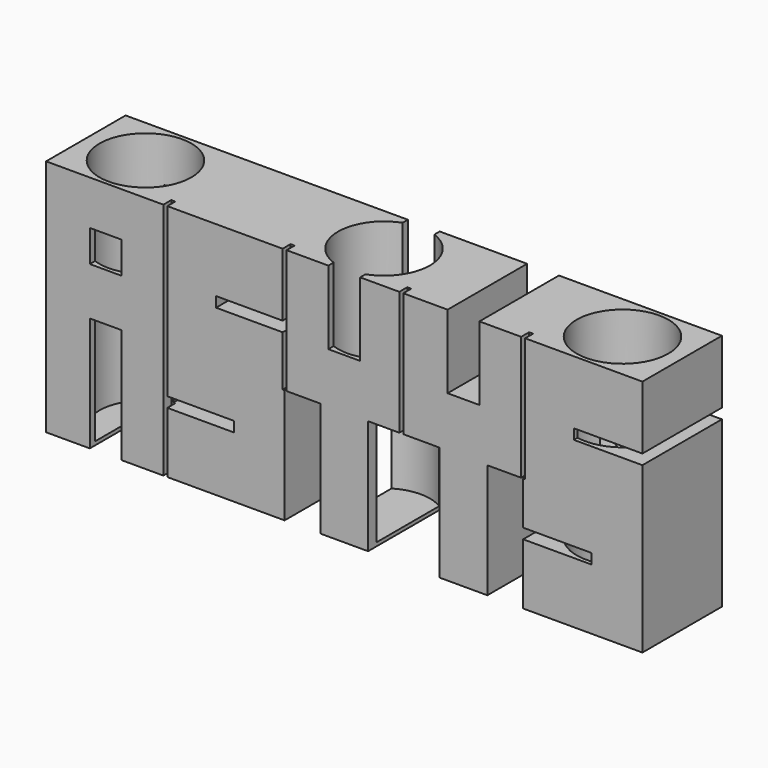
from build123d import *

# Parameters (mm, degrees)
F0_W      = 150
F0_H      = 60
F1_DEPTH  = 25
F2_W      = 146
F2_H      = 21
F3_DEPTH  = 2
F4_R      = 11.55
F5_DEPTH  = 59.1
F6_R      = 12.5
F7_DEPTH  = 6.9
F8_W      = 4
F8_H      = 8
F8_H_2    = 28.7938314093
F8_W_2    = 17.2490148246
F8_H_3    = 2.5750142522
F8_W_3    = 9
F8_H_4    = 18.5084169569
F9_DEPTH  = 35.6
F10_W     = 8
F10_H     = 28.7938314093
F10_H_2   = 18.5084169569
F10_H_3   = 8
F10_W_2   = 0.5
F10_H_4   = 15.327197553
F10_W_3   = 16.7490148246
F10_H_5   = 2.5750142522
F10_H_6   = 31.2061685907
F10_H_7   = 15.9334027047
F10_H_8   = 12.6977516338
F10_H_9   = 42.0977881948
F11_DEPTH = 2.5


with BuildPart() as f1:
    # F0 (on Front) → F1 (new body)
    with BuildSketch(Plane.XZ):
        with Locations((0, 8.6096065703)):
            Rectangle(F0_W, F0_H)
    extrude(amount=F1_DEPTH)

    # F2 (on face) → F3 (join)
    with BuildSketch(Plane.XY.offset(38.6096065703)):
        with Locations((0, -12.5)):
            Rectangle(F2_W, F2_H)
    extrude(amount=-F3_DEPTH)

    # F4 (on face) → F5 (cut)
    with BuildSketch(Plane.XY.offset(38.6096065703)):
        with Locations((60, -12.5)):
            Circle(F4_R)
        with Locations((-60, -12.5)):
            Circle(F4_R)
        with Locations((0, -12.5)):
            Circle(F4_R)
    extrude(amount=-F5_DEPTH, mode=Mode.SUBTRACT)

    # F6 (on face) → F7 (cut)
    with BuildSketch(Plane(origin=(0, 0, 0), x_dir=(-1, 0, 0), z_dir=(0, 1, 0))):
        with Locations((-58, 13.6096065703)):
            Circle(F6_R)
        with Locations((38, 13.6096065703)):
            Circle(F6_R)
    extrude(amount=-F7_DEPTH, mode=Mode.SUBTRACT)

    # F8 (on face) → F9 (cut)
    with BuildSketch(Plane.XZ.offset(25)):
        with Locations((-62, 23.4421596825)):
            Rectangle(F8_W, F8_H)
        with Locations((-58, 23.4421596825)):
            Rectangle(F8_W, F8_H)
        with Locations((-62, -6.9934777251)):
            Rectangle(F8_W, F8_H_2)
        with Locations((-58, -6.9934777251)):
            Rectangle(F8_W, F8_H_2)
        with Locations((-36.3754925877, -4.7756887507)):
            Rectangle(F8_W_2, F8_H_3)
        with Locations((-23.6245074123, 21.3886967395)):
            Rectangle(F8_W_2, F8_H_3)
        Polygon((4, 38.6096065703), (-4, 38.6096065703), (-4, 20.1011896133), (0, 20.1011896133), (4, 20.1011896133), align=None)
        with Locations((-10.5, -6.9934777251)):
            Rectangle(F8_W_3, F8_H_2)
        with Locations((10.5, -6.9934777251)):
            Rectangle(F8_W_3, F8_H_2)
        with Locations((19.5, -6.9934777251)):
            Rectangle(F8_W_3, F8_H_2)
        with Locations((32, 29.3553980918)):
            Rectangle(F8_W, F8_H_4)
        with Locations((28, 29.3553980918)):
            Rectangle(F8_W, F8_H_4)
        Polygon((36, 7.4034379795), (36, -21.3903934297), (45, -21.3903934297), (45, -6.0631958768), (45, -3.4881816246), (45, 7.4034379795), align=None)
        with Locations((53.6245074123, -4.7756887507)):
            Rectangle(F8_W_2, F8_H_3)
        with Locations((66.3754925877, 21.3886967395)):
            Rectangle(F8_W_2, F8_H_3)
    extrude(amount=-F9_DEPTH, mode=Mode.SUBTRACT)

    # F10 (on face) → F11 (cut)
    with BuildSketch(Plane.XZ.offset(25)):
        with Locations((-60, -6.9934777251)):
            Rectangle(F10_W, F10_H)
        with Locations((0, 29.3553980918)):
            Rectangle(F10_W, F10_H_2)
        with Locations((30, 29.3553980918)):
            Rectangle(F10_W, F10_H_2)
        with Locations((-60, 23.4421596825)):
            Rectangle(F10_W, F10_H_3)
        with Locations((-44.75, -13.7267946533)):
            Rectangle(F10_W_2, F10_H_4)
        with Locations((-36.1254925877, -4.7756887507)):
            Rectangle(F10_W_3, F10_H_5)
        with Locations((-23.8745074123, 21.3886967395)):
            Rectangle(F10_W_3, F10_H_5)
        Polygon((-15, 7.4034379795), (-15, -21.3903934297), (-6, -21.3903934297), (-6, 7.4034379795), (-14.5, 7.4034379795), align=None)
        Polygon((6, 7.4034379795), (6, -21.3903934297), (14.3485692441, -21.3903934297), (14.3485692441, 7.4034379795), (13.8485692441, 7.4034379795), align=None)
        Polygon((14.3485692441, 7.4034379795), (14.3485692441, -21.3903934297), (24, -21.3903934297), (24, 7.4034379795), (14.8485692441, 7.4034379795), align=None)
        with Locations((-44.75, -4.7756887507)):
            Rectangle(F10_W_2, F10_H_5)
        Polygon((36, 7.4034379795), (36, -21.3903934297), (45, -21.3903934297), (45, -6.0631958768), (45, -3.4881816246), (45, 7.4034379795), (44.5, 7.4034379795), align=None)
        with Locations((45.25, 23.0065222749)):
            Rectangle(F10_W_2, F10_H_6)
        with Locations((44.75, 23.0065222749)):
            Rectangle(F10_W_2, F10_H_6)
        with Locations((14.5985692441, 23.0065222749)):
            Rectangle(F10_W_2, F10_H_6)
        with Locations((14.0985692441, 23.0065222749)):
            Rectangle(F10_W_2, F10_H_6)
        Polygon((-14.5, 38.6096065703), (-15, 38.6096065703), (-15, 22.6762038656), (-15, 20.1011896133), (-15, 7.4034379795), (-14.5, 7.4034379795), align=None)
        with Locations((-15.25, 30.6429052179)):
            Rectangle(F10_W_2, F10_H_7)
        with Locations((-15.25, 13.7523137964)):
            Rectangle(F10_W_2, F10_H_8)
        with Locations((-15.25, 21.3886967395)):
            Rectangle(F10_W_2, F10_H_5)
        with Locations((-44.75, 17.5607124729)):
            Rectangle(F10_W_2, F10_H_9)
        Polygon((-45, 38.6096065703), (-45.5, 38.6096065703), (-45.5, -21.3903934297), (-45, -21.3903934297), (-45, -6.0631958768), (-45, -3.4881816246), align=None)
    extrude(amount=-F11_DEPTH, mode=Mode.SUBTRACT)


solid = f1.part
